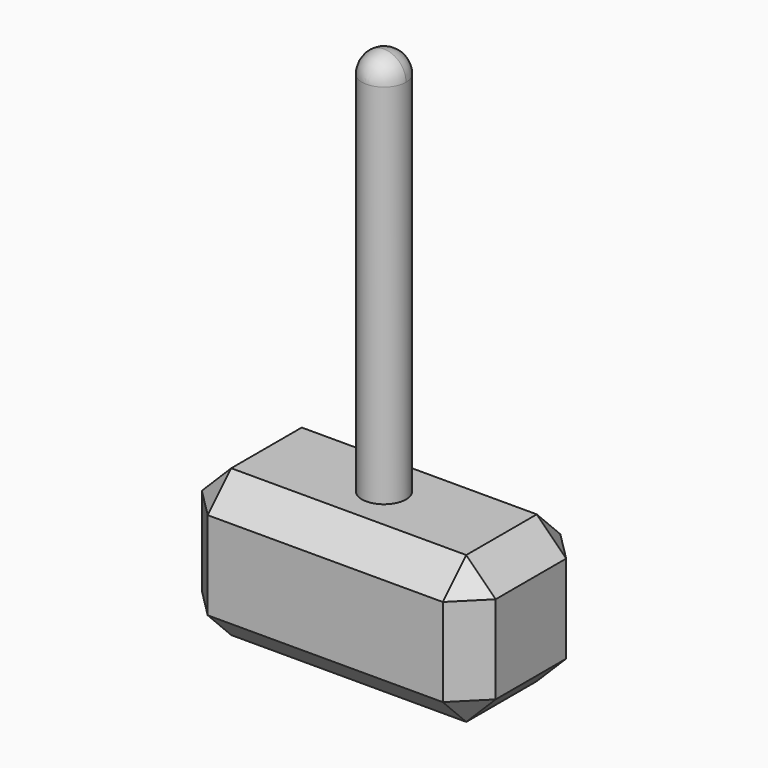
from build123d import *

# Parameters (mm, degrees)
F0_W     = 50.8
F0_H     = 25.4
F1_DEPTH = 25.4
F2_R     = 3.81
F3_DEPTH = 63.5
F6_SIZE  = 5.08


with BuildPart() as f1:
    # F0 (on Top) → F1 (new body)
    with BuildSketch(Plane.XY):
        Rectangle(F0_W, F0_H)
    extrude(amount=F1_DEPTH)

    # F2 (on face) → F3 (join)
    with BuildSketch(Plane.XY.offset(25.4)):
        Circle(F2_R)
    extrude(amount=F3_DEPTH)

    # F4 (on face) → F5 (revolve)
    with BuildSketch(Plane.XY.offset(88.9)):
        with BuildLine():
            Line((0, 3.81), (0, -3.81))
            ThreePointArc((0, -3.81), (2.694077, -2.694077), (3.81, 0))
            ThreePointArc((3.81, 0), (2.694077, 2.694077), (0, 3.81))
        make_face()
    revolve(axis=Axis((0, 0, 88.9), (0, -1, 0)))

    # F6
    f6_edges = [f1.edges().sort_by_distance(p)[0] for p in [
        (-25.4, 0, 25.4),
        (25.4, 0, 25.4),
        (0, -12.7, 25.4),
        (0, 12.7, 25.4),
        (0, -12.7, 0),
        (0, 12.7, 0),
        (-25.4, 0, 0),
        (25.4, 0, 0),
        (25.4, -12.7, 12.7),
        (25.4, 12.7, 12.7),
        (-25.4, 12.7, 12.7),
        (-25.4, -12.7, 12.7),
    ]]
    chamfer(f6_edges, length=F6_SIZE)


solid = f1.part
